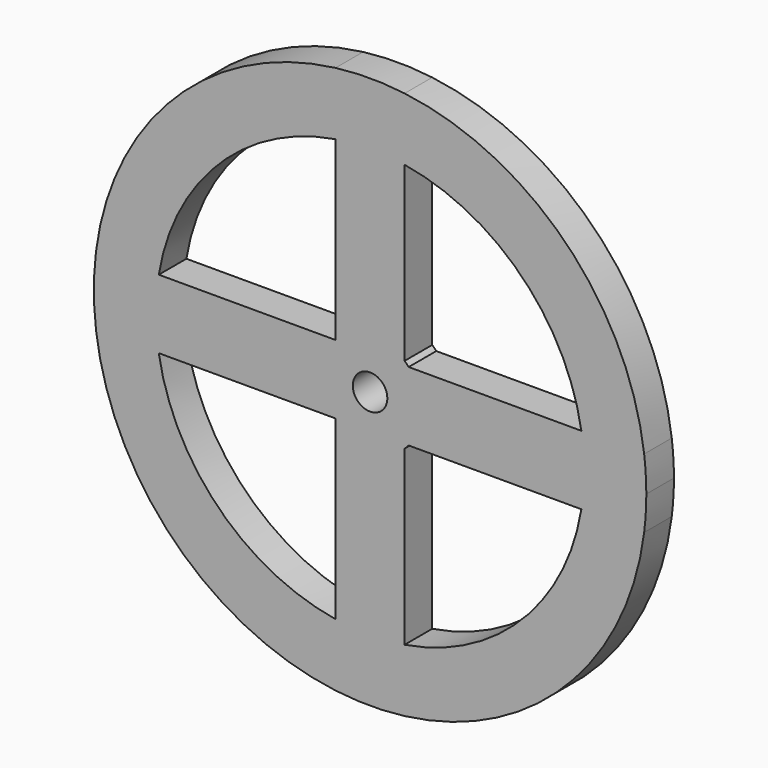
from build123d import *

# Parameters (mm, degrees)
F0_R     = 2.5
F1_DEPTH = 2.5


with BuildPart() as f1:
    # F0 (on Front) → F1 (new body, symmetric)
    with BuildSketch(Plane.XZ):
        with BuildLine():
            ThreePointArc((39.68627, -5), (39.92149, -2.504917), (40, 0))
            ThreePointArc((40, 0), (39.92149, 2.504917), (39.68627, 5))
            ThreePointArc((39.68627, 5), (28.284271, 28.284271), (5, 39.68627))
            ThreePointArc((5, 39.68627), (0, 40), (-5, 39.68627))
            ThreePointArc((-5, 39.68627), (-28.284271, 28.284271), (-39.68627, 5))
            ThreePointArc((-39.68627, 5), (-40, 0), (-39.68627, -5))
            ThreePointArc((-39.68627, -5), (-28.284271, -28.284271), (-5, -39.68627))
            ThreePointArc((-5, -39.68627), (0, -40), (5, -39.68627))
            ThreePointArc((5, -39.68627), (28.284271, -28.284271), (39.68627, -5))
        make_face()
        with BuildLine():
            Line((-5.59017, -5), (-5, -5))
            Line((-5, -5), (-5, -30.594117))
            ThreePointArc((-5, -30.594117), (-21.92031, -21.92031), (-30.594117, -5))
            Line((-30.594117, -5), (-5.59017, -5))
        make_face(mode=Mode.SUBTRACT)
        with BuildLine():
            Line((5, -30.594117), (5, -5.59017))
            ThreePointArc((5, -5.59017), (5.303301, -5.303301), (5.59017, -5))
            Line((5.59017, -5), (30.594117, -5))
            ThreePointArc((30.594117, -5), (21.92031, -21.92031), (5, -30.594117))
        make_face(mode=Mode.SUBTRACT)
        with BuildLine():
            Line((-5, 30.594117), (-5, 5))
            Line((-5, 5), (-30.594117, 5))
            ThreePointArc((-30.594117, 5), (-21.92031, 21.92031), (-5, 30.594117))
        make_face(mode=Mode.SUBTRACT)
        Circle(F0_R, mode=Mode.SUBTRACT)
        with BuildLine():
            ThreePointArc((5, 30.594117), (21.92031, 21.92031), (30.594117, 5))
            Line((30.594117, 5), (5.59017, 5))
            ThreePointArc((5.59017, 5), (5.303301, 5.303301), (5, 5.59017))
            Line((5, 5.59017), (5, 30.594117))
        make_face(mode=Mode.SUBTRACT)
    extrude(amount=F1_DEPTH, both=True)


solid = f1.part
